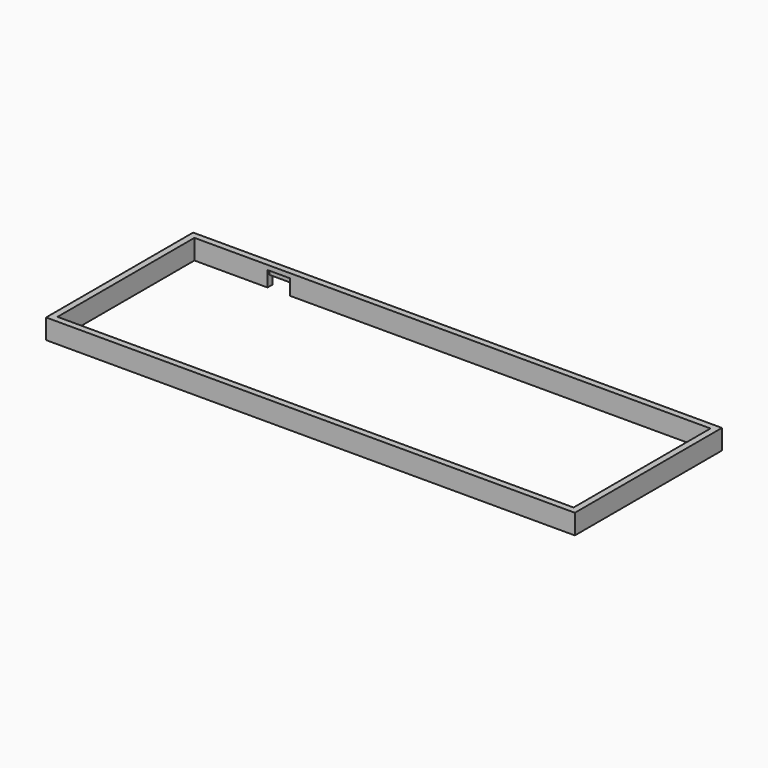
from build123d import *

# Parameters (mm, degrees)
F0_W     = 233
F0_H     = 81
F0_W_2   = 227.4
F0_H_2   = 75.4
F1_DEPTH = 8.8
F2_W     = 10
F2_H     = 4.4
F3_DEPTH = 25
F4_W     = 10
F4_H     = 1.2
F5_DEPTH = 2.4


with BuildPart() as f1:
    # F0 (on Top) → F1 (new body)
    with BuildSketch(Plane.XY):
        Rectangle(F0_W, F0_H)
        Rectangle(F0_W_2, F0_H_2, mode=Mode.SUBTRACT)
    extrude(amount=F1_DEPTH)

    # F2 (on face) → F3 (cut)
    with BuildSketch(Plane(origin=(0, 40.5, 0), x_dir=(-1, 0, 0), z_dir=(0, 1, 0))):
        with Locations((76.5, 2.2)):
            Rectangle(F2_W, F2_H)
    extrude(amount=-F3_DEPTH, mode=Mode.SUBTRACT)

    # F4 (on face) → F5 (cut)
    with BuildSketch(Plane(origin=(0, 0, 4.4), x_dir=(1, 0, 0), z_dir=(0, 0, -1))):
        with Locations((-76.5, -38.3)):
            Rectangle(F4_W, F4_H)
    extrude(amount=-F5_DEPTH, mode=Mode.SUBTRACT)


solid = f1.part
